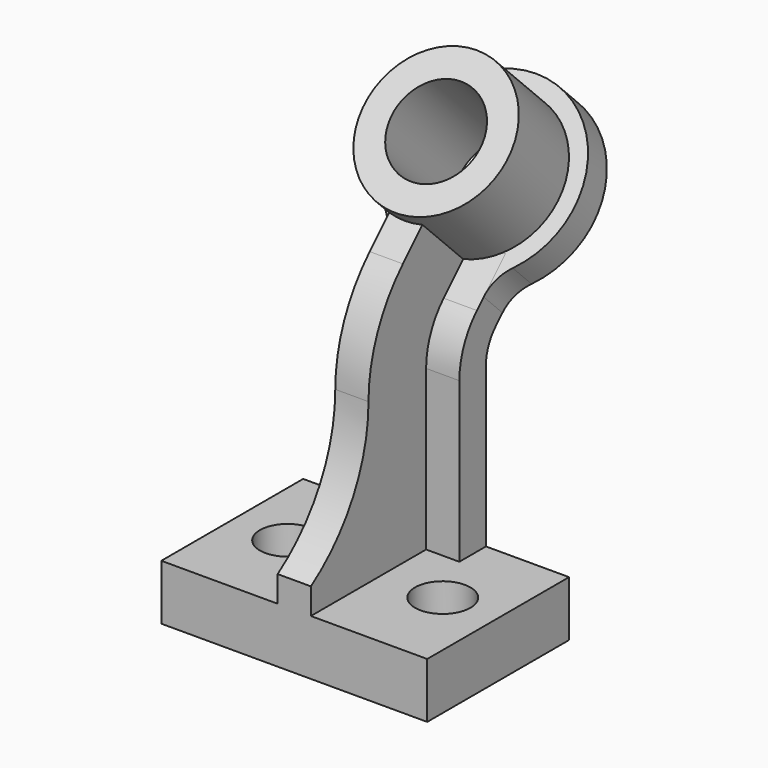
from build123d import *

# Parameters (mm, degrees)
F0_W     = 96
F0_H     = 64
F0_R     = 10
F1_DEPTH = 20
F5_DEPTH = 6
F6_DEPTH = 18
F8_R     = 15


with BuildPart() as f1:
    # F0 (on Top) → F1 (new body)
    with BuildSketch(Plane.XY):
        Rectangle(F0_W, F0_H)
        with Locations((-28, 0)):
            Circle(F0_R, mode=Mode.SUBTRACT)
        with Locations((28, 0)):
            Circle(F0_R, mode=Mode.SUBTRACT)
    extrude(amount=-F1_DEPTH)


with BuildPart() as f3:
    # F2 (on Right) → F3 (revolve)
    with BuildSketch(Plane.YZ):
        Polygon((50.3847763109, 144.3847763109), (43.313708499, 137.313708499), (65.941125497, 114.686291501), (73.0121933088, 121.7573593129), align=None)
        Polygon((73.0121933088, 121.7573593129), (65.941125497, 114.686291501), (74.4264068712, 106.2010101268), (85.7401153702, 117.5147186258), (77.2548339959, 126), align=None)
    revolve(axis=Axis((0, 47.5563491861, 110.4436508139), (0, 0.7071067812, -0.7071067812)))


with BuildPart() as f5:
    # F4 (on Right) → F5 (new body, symmetric)
    with BuildSketch(Plane.YZ):
        Polygon((9.5233405971, 95.0380592229), (27.908116908, 76.653282912), (40.7393130211, 89.4844790252), (22.3545367103, 107.869255336), align=None)
        with BuildLine():
            Line((-32, 0), (20, 0))
            Line((20, 0), (20, 57.56139982))
            ThreePointArc((20, 57.56139982), (22.0552526222, 67.8938524938), (27.908116908, 76.653282912))
            Line((27.908116908, 76.653282912), (9.5233405971, 95.0380592229))
            ThreePointArc((9.5233405971, 95.0380592229), (-1.9656152231, 77.8436217353), (-6, 57.56139982))
            ThreePointArc((-6, 57.56139982), (-12.9154073667, 30.2063601077), (-32, 9.4241710813))
            Line((-32, 9.4241710813), (-32, 0))
        make_face()
    extrude(amount=F5_DEPTH, both=True)


with BuildPart() as f6:
    # F4 (on Right) → F6 (new body, symmetric)
    with BuildSketch(Plane.YZ):
        with BuildLine():
            Line((20, 0), (32, 0))
            Line((32, 0), (32, 57.56139982))
            ThreePointArc((32, 57.56139982), (33.1418070123, 63.3016513055), (36.3933982822, 68.1680015378))
            Line((36.3933982822, 68.1680015378), (27.908116908, 76.653282912))
            ThreePointArc((27.908116908, 76.653282912), (22.0552526222, 67.8938524938), (20, 57.56139982))
            Line((20, 57.56139982), (20, 0))
        make_face()
        Polygon((27.908116908, 76.653282912), (36.3933982822, 68.1680015378), (49.2245943954, 80.9991976509), (40.7393130211, 89.4844790252), align=None)
    extrude(amount=F6_DEPTH, both=True)

    # F7: union F1, F3, F5
    add(f1.part)
    add(f3.part)
    add(f5.part)

    # F8
    f8_edges = [f6.edges().sort_by_distance(p)[0] for p in [
        (18, 40.161771, 80.421655),
        (-18, 40.161771, 80.421655),
    ]]
    fillet(f8_edges, radius=F8_R)


solid = f6.part
